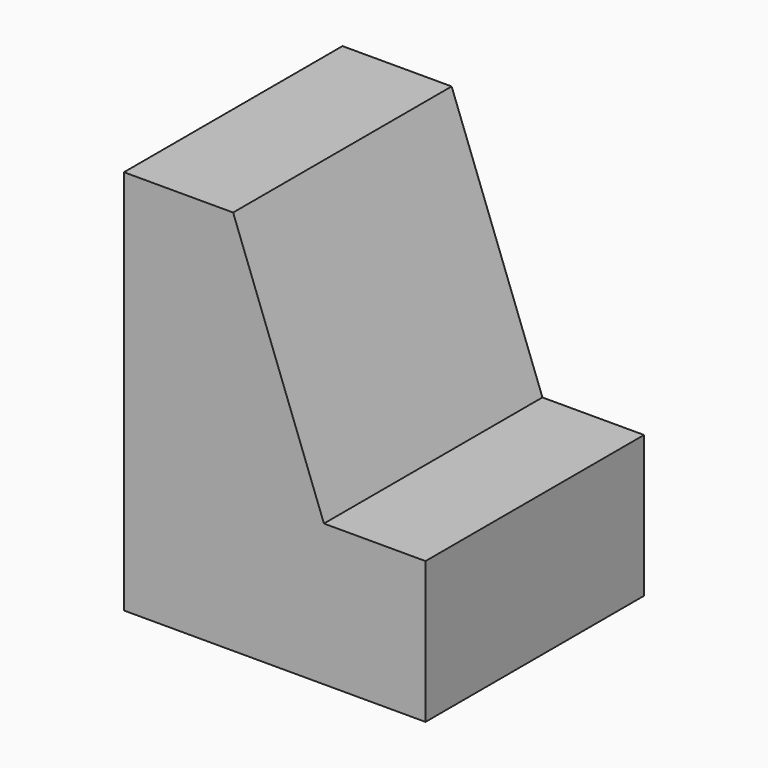
from build123d import *

# Parameters (mm, degrees)
F0_W     = 37.4921225011
F0_H     = 35.8838811517
F1_DEPTH = 25.4
F3_DEPTH = 25.4
F4_W     = 9.4484174624
F4_H     = 13.1674753502
F5_DEPTH = 25.4


with BuildPart() as f1:
    # F0 (on Front) → F1 (new body)
    with BuildSketch(Plane.XZ):
        with Locations((18.7460612506, 17.9419405758)):
            Rectangle(F0_W, F0_H)
    extrude(amount=F1_DEPTH)

    # F2 (on face) → F3 (cut)
    with BuildSketch(Plane.XZ.offset(25.4)):
        Polygon((37.4921225011, 35.8838811517), (10.1520223543, 35.8838811517), (18.5952875763, 13.1674753502), (37.4921225011, 13.1674753502), align=None)
    extrude(amount=-F3_DEPTH, mode=Mode.SUBTRACT)

    # F4 (on face) → F5 (cut)
    with BuildSketch(Plane.XZ.offset(25.4)):
        with Locations((32.7679137699, 6.5837376751)):
            Rectangle(F4_W, F4_H)
    extrude(amount=-F5_DEPTH, mode=Mode.SUBTRACT)


solid = f1.part
